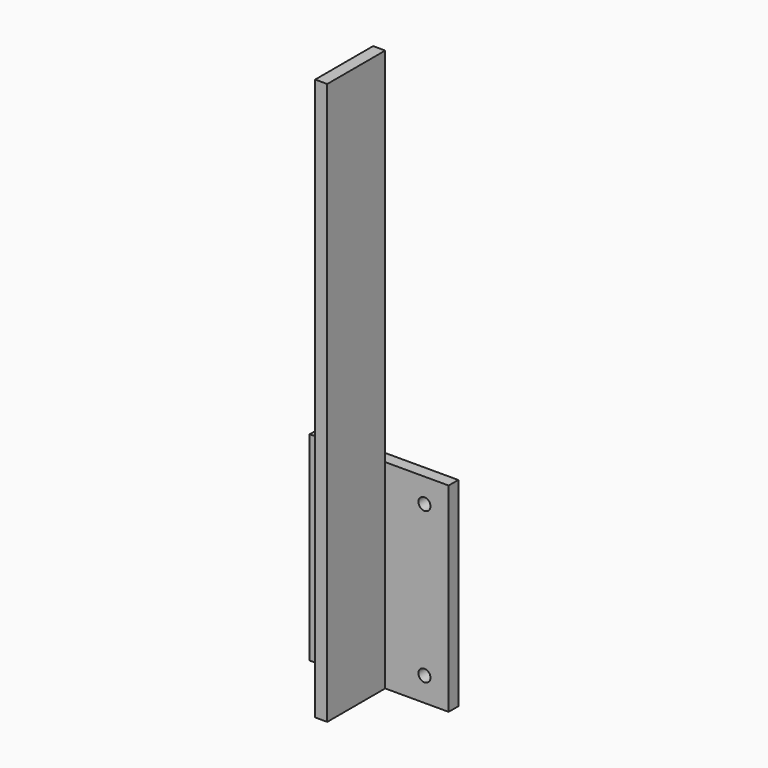
from build123d import *

# Parameters (mm, degrees)
SKETCH_W     = 115
SKETCH_H     = 165
SKETCH_R     = 5
PAD_DEPTH    = 10
SKETCH001_W  = 10
SKETCH001_H  = 165
PAD001_DEPTH = 60
SKETCH002_W  = 10
SKETCH002_H  = 60
PAD002_DEPTH = 300


with BuildPart() as part:
    # Sketch (on Face1 of Copydouble_beam_01) → Pad (new body)
    with BuildSketch(Plane.XZ.offset(375)):
        with Locations((89.390244, 162.5)):
            Rectangle(SKETCH_W, SKETCH_H)
        with Locations((51.890244, 225)):
            Circle(SKETCH_R, mode=Mode.SUBTRACT)
        with Locations((126.890244, 100)):
            Circle(SKETCH_R, mode=Mode.SUBTRACT)
        with Locations((51.890244, 100)):
            Circle(SKETCH_R, mode=Mode.SUBTRACT)
        with Locations((126.890244, 225)):
            Circle(SKETCH_R, mode=Mode.SUBTRACT)
    extrude(amount=PAD_DEPTH)

    # Sketch001 (on Face10 of Pad) → Pad001 (join)
    with BuildSketch(Plane.XZ.offset(385)):
        with Locations((89.390244, 162.5)):
            Rectangle(SKETCH001_W, SKETCH001_H)
    extrude(amount=PAD001_DEPTH)

    # Sketch002 (on Face9 of Pad001) → Pad002 (join)
    with BuildSketch(Plane.XY.offset(245)):
        with Locations((89.390244, -415)):
            Rectangle(SKETCH002_W, SKETCH002_H)
    extrude(amount=PAD002_DEPTH)


solid = part.part
